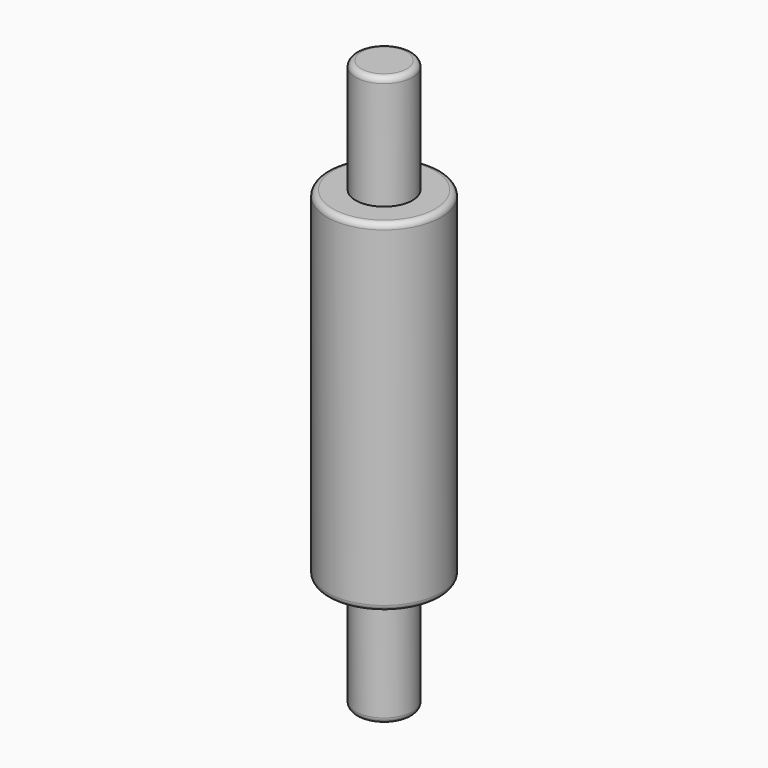
from build123d import *

# Parameters (mm, degrees)
F0_R     = 50.8
F1_DEPTH = 304.8
F2_R     = 5.08
F3_R     = 5.08
F4_R     = 25.4
F5_DEPTH = 101.6
F6_R     = 5.08
F7_R     = 25.4
F8_DEPTH = 101.6
F9_R     = 5.08


with BuildPart() as f1:
    # F0 (on Top) → F1 (new body)
    with BuildSketch(Plane.XY):
        Circle(F0_R)
    extrude(amount=F1_DEPTH)

    # F2
    f2_edges = [f1.edges().sort_by_distance(p)[0] for p in [
        (-50.8, 0, 304.8),
    ]]
    fillet(f2_edges, radius=F2_R)

    # F3
    f3_edges = [f1.edges().sort_by_distance(p)[0] for p in [
        (-50.8, 0, 0),
    ]]
    fillet(f3_edges, radius=F3_R)

    # F4 (on face) → F5 (join)
    with BuildSketch(Plane(origin=(0, 0, 0), x_dir=(1, 0, 0), z_dir=(0, 0, -1))):
        Circle(F4_R)
    extrude(amount=F5_DEPTH)

    # F6
    f6_edges = [f1.edges().sort_by_distance(p)[0] for p in [
        (-25.4, 0, -101.6),
    ]]
    fillet(f6_edges, radius=F6_R)

    # F7 (on face) → F8 (join)
    with BuildSketch(Plane.XY.offset(304.8)):
        Circle(F7_R)
    extrude(amount=F8_DEPTH)

    # F9
    f9_edges = [f1.edges().sort_by_distance(p)[0] for p in [
        (-25.4, 0, 406.4),
    ]]
    fillet(f9_edges, radius=F9_R)


solid = f1.part
